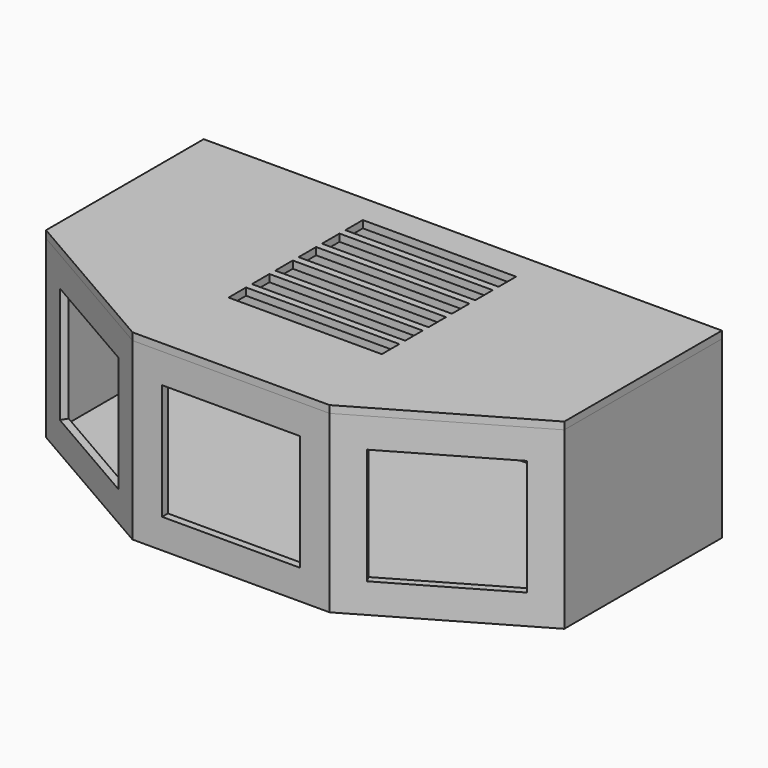
from build123d import *

# Parameters (mm, degrees)
F1_DEPTH  = 152.4
F3_T      = -6.35
F2_W      = 119.888
F2_H      = 100.838
F4_DEPTH  = 25.4
F6_DEPTH  = 6.35
F7_W      = 133.35
F7_H      = 19.05
F8_DEPTH  = 25.4
F9_W      = 109.7496652116
F9_H      = 100.838
F10_DEPTH = 25.4
F11_W     = 109.7496652116
F11_H     = 100.838
F12_DEPTH = 25.4


with BuildPart() as f1:
    # F0 (on Top) → F1 (new body)
    with BuildSketch(Plane.XY):
        Polygon((225.425, 85.725), (-225.425, 85.725), (-225.425, -85.725), (-85.725, -166.3808326058), (85.725, -166.3808326058), (225.425, -85.725), align=None)
    extrude(amount=F1_DEPTH)

    # F3
    f3_openings = [f1.faces().sort_by_distance(p)[0] for p in [
        (0, -29.415362, 152.4),
    ]]
    offset(amount=F3_T, openings=f3_openings)

    # F2 (on face) → F4 (cut)
    with BuildSketch(Plane.XZ.offset(166.3808326058)):
        with Locations((0, 76.2)):
            Rectangle(F2_W, F2_H)
    extrude(amount=-F4_DEPTH, mode=Mode.SUBTRACT)

    # F9 (on face) → F10 (cut)
    with BuildSketch(Plane(origin=(93.4762638697, -161.9056383241, 0), x_dir=(0.8660254038, 0.5, 0), z_dir=(0.5, -0.8660254038, 0))):
        with Locations((71.7054440423, 76.2)):
            Rectangle(F9_W, F9_H)
    extrude(amount=-F10_DEPTH, mode=Mode.SUBTRACT)

    # F11 (on face) → F12 (cut)
    with BuildSketch(Plane(origin=(-93.4762638697, -161.9056383241, 0), x_dir=(0.8660254038, -0.5, 0), z_dir=(-0.5, -0.8660254038, 0))):
        with Locations((-71.7054440423, 76.2)):
            Rectangle(F11_W, F11_H)
    extrude(amount=-F12_DEPTH, mode=Mode.SUBTRACT)


with BuildPart() as f6:
    # F5 (on face) → F6 (new body)
    with BuildSketch(Plane.XY.offset(152.4)):
        Polygon((-225.425, -85.725), (-85.725, -166.3808326058), (85.725, -166.3808326058), (225.425, -85.725), (225.425, 85.725), (-225.425, 85.725), align=None)
    extrude(amount=F6_DEPTH)

    # F7 (on face) → F8 (cut)
    with BuildSketch(Plane.XY.offset(158.75)):
        Rectangle(F7_W, F7_H)
        with Locations((0, -25.4)):
            Rectangle(F7_W, F7_H)
        with Locations((0, -50.8)):
            Rectangle(F7_W, F7_H)
        with Locations((0, 25.4)):
            Rectangle(F7_W, F7_H)
        with Locations((0, 50.8)):
            Rectangle(F7_W, F7_H)
        with Locations((0, -76.2)):
            Rectangle(F7_W, F7_H)
    extrude(amount=-F8_DEPTH, mode=Mode.SUBTRACT)


solid = Compound([f1.part, f6.part])
